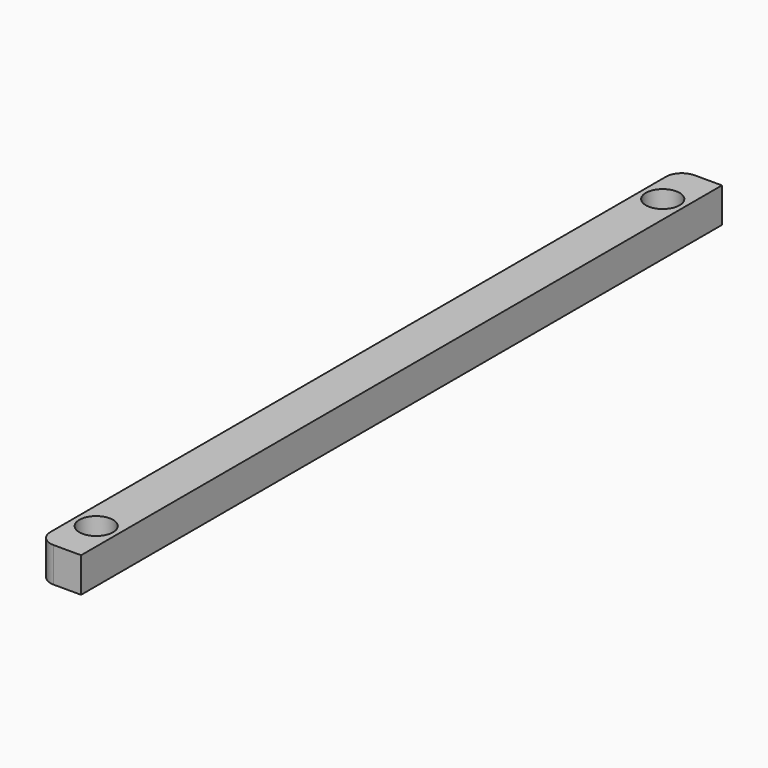
from build123d import *

# Parameters (mm, degrees)
SKETCH010_W  = 75.9
SKETCH010_H  = 3.301254
PAD004_DEPTH = 4.1
SKETCH_R     = 1.6
POCKET_DEPTH = 2.2
FILLET_R     = 1.5


with BuildPart() as part:
    # Sketch010 → Pad004 (new body)
    with BuildSketch(Plane.YZ):
        with Locations((-37.95, 12.349373)):
            Rectangle(SKETCH010_W, SKETCH010_H)
    extrude(amount=-PAD004_DEPTH)

    # Sketch (on Face4 of Pad004) → Pocket (cut)
    with BuildSketch(Plane(origin=(0, 0, 14), x_dir=(0, -1, 0), z_dir=(0, 0, 1))):
        with Locations((4.45, -2.05)):
            Circle(SKETCH_R)
        with Locations((71.55, -2.05)):
            Circle(SKETCH_R)
    extrude(amount=-POCKET_DEPTH, mode=Mode.SUBTRACT)

    # Fillet
    fillet_edges = [part.edges().sort_by_distance(p)[0] for p in [
        (-4.1, -75.9, 12.349373),
        (-4.1, 0, 12.349373),
    ]]
    fillet(fillet_edges, radius=FILLET_R)


solid = part.part
